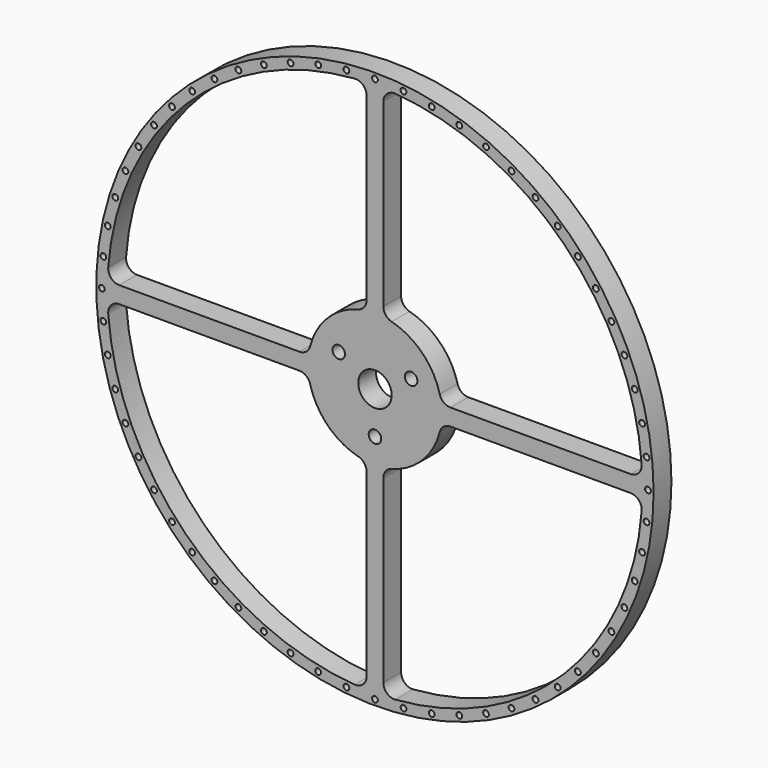
from build123d import *

# Parameters (mm, degrees)
F0_R     = 39.6875
F0_R_2   = 0.41275
F0_R_3   = 0.889
F0_R_4   = 2.38125
F1_DEPTH = 3.175


with BuildPart() as f1:
    # F0 (on Front) → F1 (new body)
    with BuildSketch(Plane.XZ):
        Circle(F0_R)
        with Locations((-22.861173, -31.465705)):
            Circle(F0_R_2, mode=Mode.SUBTRACT)
        with Locations((-31.465705, -22.861173)):
            Circle(F0_R_2, mode=Mode.SUBTRACT)
        with Locations((-26.024999, -28.903689)):
            Circle(F0_R_2, mode=Mode.SUBTRACT)
        with Locations((-28.903689, -26.024999)):
            Circle(F0_R_2, mode=Mode.SUBTRACT)
        with Locations((-15.819513, -35.531209)):
            Circle(F0_R_2, mode=Mode.SUBTRACT)
        with Locations((-12.01883, -36.990154)):
            Circle(F0_R_2, mode=Mode.SUBTRACT)
        with Locations((-19.446875, -33.682976)):
            Circle(F0_R_2, mode=Mode.SUBTRACT)
        with Locations((-8.086465, -38.043828)):
            Circle(F0_R_2, mode=Mode.SUBTRACT)
        with Locations((-4.065504, -38.680686)):
            Circle(F0_R_2, mode=Mode.SUBTRACT)
        with Locations((-35.531209, -15.819513)):
            Circle(F0_R_2, mode=Mode.SUBTRACT)
        with Locations((-33.682976, -19.446875)):
            Circle(F0_R_2, mode=Mode.SUBTRACT)
        with Locations((-36.990154, -12.01883)):
            Circle(F0_R_2, mode=Mode.SUBTRACT)
        with Locations((-38.043828, -8.086465)):
            Circle(F0_R_2, mode=Mode.SUBTRACT)
        with Locations((-38.680686, -4.065504)):
            Circle(F0_R_2, mode=Mode.SUBTRACT)
        with BuildLine():
            ThreePointArc((-37.989555, -2.898913), (-37.571111, -1.699143), (-36.406657, -1.190625))
            Line((-36.406657, -1.190625), (-10.759632, -1.190625))
            ThreePointArc((-10.759632, -1.190625), (-9.787491, -1.523096), (-9.222542, -2.38125))
            ThreePointArc((-9.222542, -2.38125), (-6.735192, -6.735192), (-2.38125, -9.222542))
            ThreePointArc((-2.38125, -9.222542), (-1.523096, -9.787491), (-1.190625, -10.759632))
            Line((-1.190625, -10.759632), (-1.190625, -36.406657))
            ThreePointArc((-1.190625, -36.406657), (-1.699143, -37.571111), (-2.898913, -37.989555))
            ThreePointArc((-2.898913, -37.989555), (-26.940768, -26.940768), (-37.989555, -2.898913))
        make_face(mode=Mode.SUBTRACT)
        with Locations((0, -38.89375)):
            Circle(F0_R_2, mode=Mode.SUBTRACT)
        with Locations((4.065504, -38.680686)):
            Circle(F0_R_2, mode=Mode.SUBTRACT)
        with Locations((8.086465, -38.043828)):
            Circle(F0_R_2, mode=Mode.SUBTRACT)
        with Locations((12.01883, -36.990154)):
            Circle(F0_R_2, mode=Mode.SUBTRACT)
        with Locations((15.819513, -35.531209)):
            Circle(F0_R_2, mode=Mode.SUBTRACT)
        with Locations((19.446875, -33.682976)):
            Circle(F0_R_2, mode=Mode.SUBTRACT)
        with Locations((22.861173, -31.465705)):
            Circle(F0_R_2, mode=Mode.SUBTRACT)
        with Locations((26.024999, -28.903689)):
            Circle(F0_R_2, mode=Mode.SUBTRACT)
        with Locations((28.903689, -26.024999)):
            Circle(F0_R_2, mode=Mode.SUBTRACT)
        with Locations((31.465705, -22.861173)):
            Circle(F0_R_2, mode=Mode.SUBTRACT)
        with BuildLine():
            ThreePointArc((2.898913, -37.989555), (1.699143, -37.571111), (1.190625, -36.406657))
            Line((1.190625, -36.406657), (1.190625, -10.759632))
            ThreePointArc((1.190625, -10.759632), (1.523096, -9.787491), (2.38125, -9.222542))
            ThreePointArc((2.38125, -9.222542), (6.735192, -6.735192), (9.222542, -2.38125))
            ThreePointArc((9.222542, -2.38125), (9.787491, -1.523096), (10.759632, -1.190625))
            Line((10.759632, -1.190625), (36.406657, -1.190625))
            ThreePointArc((36.406657, -1.190625), (37.571111, -1.699143), (37.989555, -2.898913))
            ThreePointArc((37.989555, -2.898913), (26.940768, -26.940768), (2.898913, -37.989555))
        make_face(mode=Mode.SUBTRACT)
        with Locations((0, -5.953125)):
            Circle(F0_R_3, mode=Mode.SUBTRACT)
        with Locations((33.682976, -19.446875)):
            Circle(F0_R_2, mode=Mode.SUBTRACT)
        with Locations((35.531209, -15.819513)):
            Circle(F0_R_2, mode=Mode.SUBTRACT)
        with Locations((36.990154, -12.01883)):
            Circle(F0_R_2, mode=Mode.SUBTRACT)
        with Locations((38.043828, -8.086465)):
            Circle(F0_R_2, mode=Mode.SUBTRACT)
        with Locations((38.680686, -4.065504)):
            Circle(F0_R_2, mode=Mode.SUBTRACT)
        with Locations((-38.89375, 0)):
            Circle(F0_R_2, mode=Mode.SUBTRACT)
        with Locations((-38.680686, 4.065504)):
            Circle(F0_R_2, mode=Mode.SUBTRACT)
        with Locations((-38.043828, 8.086465)):
            Circle(F0_R_2, mode=Mode.SUBTRACT)
        with Locations((-36.990154, 12.01883)):
            Circle(F0_R_2, mode=Mode.SUBTRACT)
        with Locations((-35.531209, 15.819513)):
            Circle(F0_R_2, mode=Mode.SUBTRACT)
        with Locations((-33.682976, 19.446875)):
            Circle(F0_R_2, mode=Mode.SUBTRACT)
        with Locations((-5.155557, 2.976563)):
            Circle(F0_R_3, mode=Mode.SUBTRACT)
        with BuildLine():
            ThreePointArc((-37.989555, 2.898913), (-26.940768, 26.940768), (-2.898913, 37.989555))
            ThreePointArc((-2.898913, 37.989555), (-1.699143, 37.571111), (-1.190625, 36.406657))
            Line((-1.190625, 36.406657), (-1.190625, 10.759632))
            ThreePointArc((-1.190625, 10.759632), (-1.523096, 9.787491), (-2.38125, 9.222542))
            ThreePointArc((-2.38125, 9.222542), (-6.735192, 6.735192), (-9.222542, 2.38125))
            ThreePointArc((-9.222542, 2.38125), (-9.787491, 1.523096), (-10.759632, 1.190625))
            Line((-10.759632, 1.190625), (-36.406657, 1.190625))
            ThreePointArc((-36.406657, 1.190625), (-37.571111, 1.699143), (-37.989555, 2.898913))
        make_face(mode=Mode.SUBTRACT)
        with Locations((-31.465705, 22.861173)):
            Circle(F0_R_2, mode=Mode.SUBTRACT)
        with Locations((-28.903689, 26.024999)):
            Circle(F0_R_2, mode=Mode.SUBTRACT)
        with Locations((-26.024999, 28.903689)):
            Circle(F0_R_2, mode=Mode.SUBTRACT)
        with Locations((-22.861173, 31.465705)):
            Circle(F0_R_2, mode=Mode.SUBTRACT)
        with Locations((-19.446875, 33.682976)):
            Circle(F0_R_2, mode=Mode.SUBTRACT)
        with Locations((-15.819513, 35.531209)):
            Circle(F0_R_2, mode=Mode.SUBTRACT)
        with Locations((-12.01883, 36.990154)):
            Circle(F0_R_2, mode=Mode.SUBTRACT)
        with Locations((-8.086465, 38.043828)):
            Circle(F0_R_2, mode=Mode.SUBTRACT)
        with Locations((-4.065504, 38.680686)):
            Circle(F0_R_2, mode=Mode.SUBTRACT)
        Circle(F0_R_4, mode=Mode.SUBTRACT)
        with Locations((5.155557, 2.976562)):
            Circle(F0_R_3, mode=Mode.SUBTRACT)
        with BuildLine():
            Line((1.190625, 10.759632), (1.190625, 36.406657))
            ThreePointArc((1.190625, 36.406657), (1.699143, 37.571111), (2.898913, 37.989555))
            ThreePointArc((2.898913, 37.989555), (26.940768, 26.940768), (37.989555, 2.898913))
            ThreePointArc((37.989555, 2.898913), (37.571111, 1.699143), (36.406657, 1.190625))
            Line((36.406657, 1.190625), (10.759632, 1.190625))
            ThreePointArc((10.759632, 1.190625), (9.787491, 1.523096), (9.222542, 2.38125))
            ThreePointArc((9.222542, 2.38125), (6.735192, 6.735192), (2.38125, 9.222542))
            ThreePointArc((2.38125, 9.222542), (1.523096, 9.787491), (1.190625, 10.759632))
        make_face(mode=Mode.SUBTRACT)
        with Locations((38.89375, 0)):
            Circle(F0_R_2, mode=Mode.SUBTRACT)
        with Locations((38.680686, 4.065504)):
            Circle(F0_R_2, mode=Mode.SUBTRACT)
        with Locations((38.043828, 8.086465)):
            Circle(F0_R_2, mode=Mode.SUBTRACT)
        with Locations((36.990154, 12.01883)):
            Circle(F0_R_2, mode=Mode.SUBTRACT)
        with Locations((33.682976, 19.446875)):
            Circle(F0_R_2, mode=Mode.SUBTRACT)
        with Locations((35.531209, 15.819513)):
            Circle(F0_R_2, mode=Mode.SUBTRACT)
        with Locations((0, 38.89375)):
            Circle(F0_R_2, mode=Mode.SUBTRACT)
        with Locations((4.065504, 38.680686)):
            Circle(F0_R_2, mode=Mode.SUBTRACT)
        with Locations((8.086465, 38.043828)):
            Circle(F0_R_2, mode=Mode.SUBTRACT)
        with Locations((19.446875, 33.682976)):
            Circle(F0_R_2, mode=Mode.SUBTRACT)
        with Locations((12.01883, 36.990154)):
            Circle(F0_R_2, mode=Mode.SUBTRACT)
        with Locations((15.819513, 35.531209)):
            Circle(F0_R_2, mode=Mode.SUBTRACT)
        with Locations((28.903689, 26.024999)):
            Circle(F0_R_2, mode=Mode.SUBTRACT)
        with Locations((26.024999, 28.903689)):
            Circle(F0_R_2, mode=Mode.SUBTRACT)
        with Locations((31.465705, 22.861173)):
            Circle(F0_R_2, mode=Mode.SUBTRACT)
        with Locations((22.861173, 31.465705)):
            Circle(F0_R_2, mode=Mode.SUBTRACT)
    extrude(amount=F1_DEPTH)


solid = f1.part
